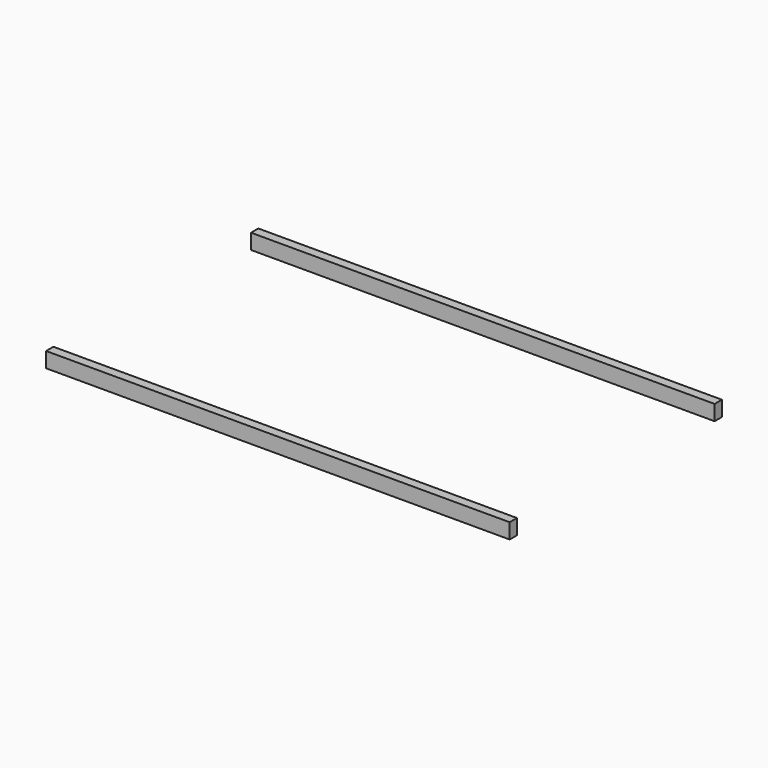
from build123d import *

# Parameters (mm, degrees)
F0_W     = 1930.4
F0_H     = 63.5
F1_DEPTH = 38.1


with BuildPart() as f1:
    # F0 (on Front) → F1 (new body)
    with BuildSketch(Plane.XZ):
        with Locations((-2.262689, -49.870968)):
            Rectangle(F0_W, F0_H)
    extrude(amount=F1_DEPTH)


with BuildPart() as f2_1:
    # F2: copy of F1
    add(f1.part.moved(Location((0, 1066.8, 0))))


solid = Compound([f1.part, f2_1.part])
